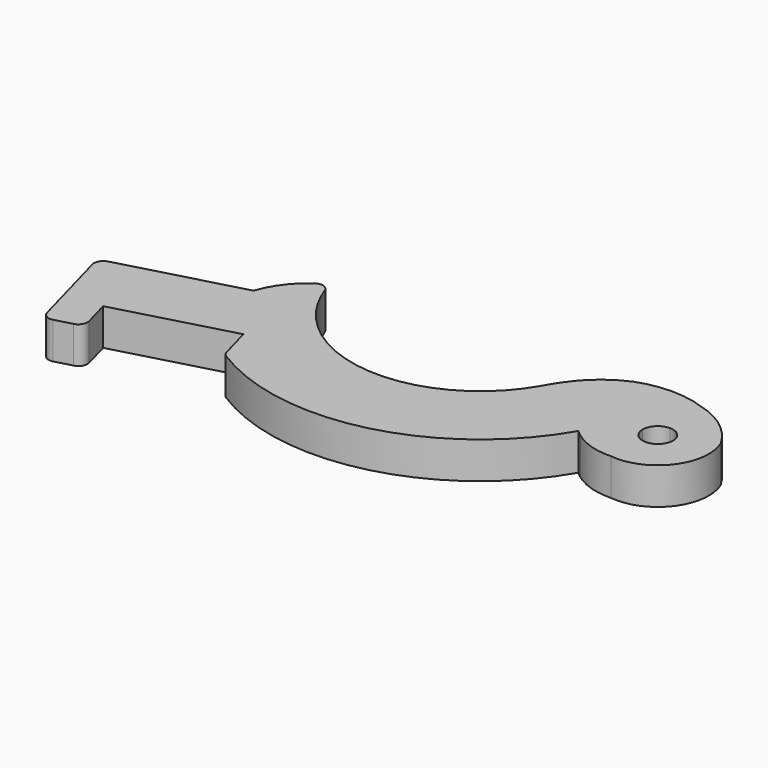
from build123d import *

# Parameters (mm, degrees)
F1_DEPTH = 20
F2_R     = 5


with BuildPart() as f1:
    # F0 (on Top) → F1 (new body)
    with BuildSketch(Plane.XY):
        with BuildLine():
            ThreePointArc((62.0982979234, -32.3079153616), (61.3748002428, -33.6620542326), (60.6217782649, -35))
            ThreePointArc((60.6217782649, -35), (6.8935156521, -69.6597404672), (-52.585942091, -46.2030160747))
            ThreePointArc((-52.585942091, -46.2030160747), (-61.8348543065, -32.8093095462), (-67.7404726567, -17.6416655747))
            ThreePointArc((-67.7404726567, -17.6416655747), (-81.0257847056, -28.0086868154), (-89.4600211499, -42.5976655747))
            Line((-89.4600211499, -42.5976655747), (-159.4039528531, -61.6441383078))
            Line((-159.4039528531, -61.6441383078), (-153.6893015355, -82.6299232912))
            Line((-153.6893015355, -82.6299232912), (-144.0242180926, -118.1227909579))
            Line((-144.0242180926, -118.1227909579), (-125.2007401483, -112.996958728))
            Line((-125.2007401483, -112.996958728), (-130.4556035369, -93.6996425735))
            Line((-130.4556035369, -93.6996425735), (-67.7393260347, -76.6213365607))
            Line((-67.7393260347, -76.6213365607), (-62.4844626461, -95.9186527152))
            ThreePointArc((-62.4844626461, -95.9186527152), (26.6446559229, -111.3317489381), (99.1389025971, -57.2378721016))
            ThreePointArc((99.1389025971, -57.2378721016), (100.6299921675, -58.5640955368), (102.1943456774, -59.8030526802))
            ThreePointArc((102.1943456774, -59.8030526802), (112.7042159478, -65.1639931789), (124.3990139715, -66.7224396218))
            ThreePointArc((124.3990139715, -66.7224396218), (150.0146795525, -55.9152425647), (153.506587349, -28.3332844884))
            ThreePointArc((153.506587349, -28.3332844884), (141.9040424388, -15.0057333176), (126.0781092152, -7.1455484467))
            ThreePointArc((126.0781092152, -7.1455484467), (107.5798665118, -3.8447724044), (89.0780140303, -7.1252541295))
            ThreePointArc((89.0780140303, -7.1252541295), (80.333002866, -11.9541917196), (72.5849125327, -18.2598205304))
            ThreePointArc((72.5849125327, -18.2598205304), (66.9238294882, -24.9720069264), (62.0982979234, -32.3079153616))
        make_face()
        with BuildLine():
            ThreePointArc((127.83052, -30.8446834837), (133.6641509448, -33.2610525389), (136.08052, -39.0946834837))
            ThreePointArc((136.08052, -39.0946834837), (133.6641509448, -44.9283144285), (127.83052, -47.3446834837))
            ThreePointArc((127.83052, -47.3446834837), (121.9968890552, -44.9283144285), (119.58052, -39.0946834837))
            ThreePointArc((119.58052, -39.0946834837), (121.9968890552, -33.2610525389), (127.83052, -30.8446834837))
        make_face(mode=Mode.SUBTRACT)
    extrude(amount=F1_DEPTH)

    # F2
    f2_edges = [f1.edges().sort_by_distance(p)[0] for p in [
        (-67.740473, -17.641666, 10),
        (-159.403953, -61.644138, 10),
        (-144.024218, -118.122791, 10),
        (-125.20074, -112.996959, 10),
        (-62.484463, -95.918653, 10),
    ]]
    fillet(f2_edges, radius=F2_R)


solid = f1.part
